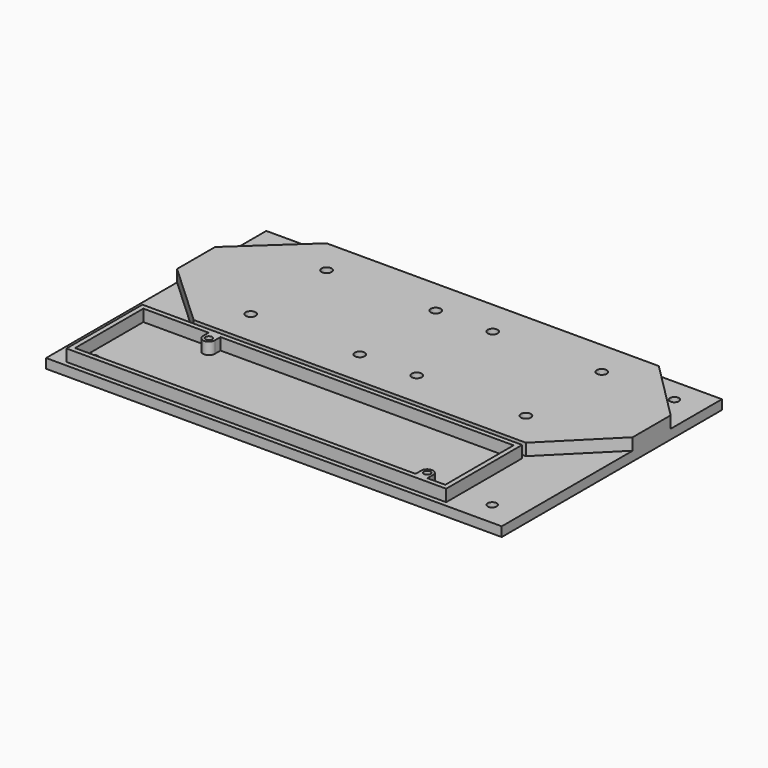
from build123d import *

# Parameters (mm, degrees)
SKETCH_W        = 192
SKETCH_H        = 116
PAD_DEPTH       = 4
SKETCH001_W     = 160
SKETCH001_H     = 40
PAD001_DEPTH    = 5
SKETCH002_R     = 1.4
POCKET_DEPTH    = 9.001
PAD002_DEPTH    = 5
SKETCH004_R     = 1.9
SKETCH004_R_2   = 2.1
POCKET001_DEPTH = 9.001


with BuildPart() as part:
    # Sketch → Pad (new body)
    with BuildSketch(Plane.XY):
        Rectangle(SKETCH_W, SKETCH_H)
    extrude(amount=PAD_DEPTH)

    # Sketch001 (on Face6 of Pad) → Pad001 (join)
    with BuildSketch(Plane.XY.offset(4)):
        with Locations((-9, -36)):
            Rectangle(SKETCH001_W, SKETCH001_H)
        with BuildLine():
            Line((69, -18), (69, -54))
            Line((69, -54), (61.5, -54))
            Line((61.5, -51), (61.5, -54))
            ThreePointArc((61.5, -51), (59, -48.5), (56.5, -51))
            Line((56.5, -51), (56.5, -54))
            Line((56.5, -54), (-87, -54))
            Line((-87, -54), (-87, -18))
            Line((-59.5, -18), (-87, -18))
            Line((-59.5, -18), (-59.5, -21))
            ThreePointArc((-59.5, -21), (-57, -23.5), (-54.5, -21))
            Line((-54.5, -21), (-54.5, -18))
            Line((-54.5, -18), (69, -18))
        make_face(mode=Mode.SUBTRACT)
    extrude(amount=PAD001_DEPTH)

    # Sketch002 (on Face11 of Pad001) → Pocket (cut, through all)
    with BuildSketch(Plane.XY.offset(9)):
        with Locations((-57, -21)):
            Circle(SKETCH002_R)
        with Locations((59, -51)):
            Circle(SKETCH002_R)
    extrude(amount=-POCKET_DEPTH, mode=Mode.SUBTRACT)

    # Sketch003 (on Face5 of Pocket) → Pad002 (join)
    with BuildSketch(Plane.XY.offset(4)):
        Polygon((-69, 56), (71, 56), (96, 31), (96, 11), (71, -14), (-69, -14), (-96, 11), (-96, 31), align=None)
    extrude(amount=PAD002_DEPTH)

    # Sketch004 (on Face22 of Pad002) → Pocket001 (cut, through all)
    with BuildSketch(Plane.XY.offset(9)):
        with Locations((-84, 48)):
            Circle(SKETCH004_R)
        with Locations((-84, -48)):
            Circle(SKETCH004_R)
        with Locations((84, -48)):
            Circle(SKETCH004_R)
        with Locations((84, 48)):
            Circle(SKETCH004_R)
        with Locations((-57, 41)):
            Circle(SKETCH004_R_2)
        with Locations((-11, 41)):
            Circle(SKETCH004_R_2)
        with Locations((-57, 1)):
            Circle(SKETCH004_R_2)
        with Locations((-11, 1)):
            Circle(SKETCH004_R_2)
        with Locations((13, 41)):
            Circle(SKETCH004_R_2)
        with Locations((59, 41)):
            Circle(SKETCH004_R_2)
        with Locations((59, 1)):
            Circle(SKETCH004_R_2)
        with Locations((13, 1)):
            Circle(SKETCH004_R_2)
    extrude(amount=-POCKET001_DEPTH, mode=Mode.SUBTRACT)


solid = part.part
